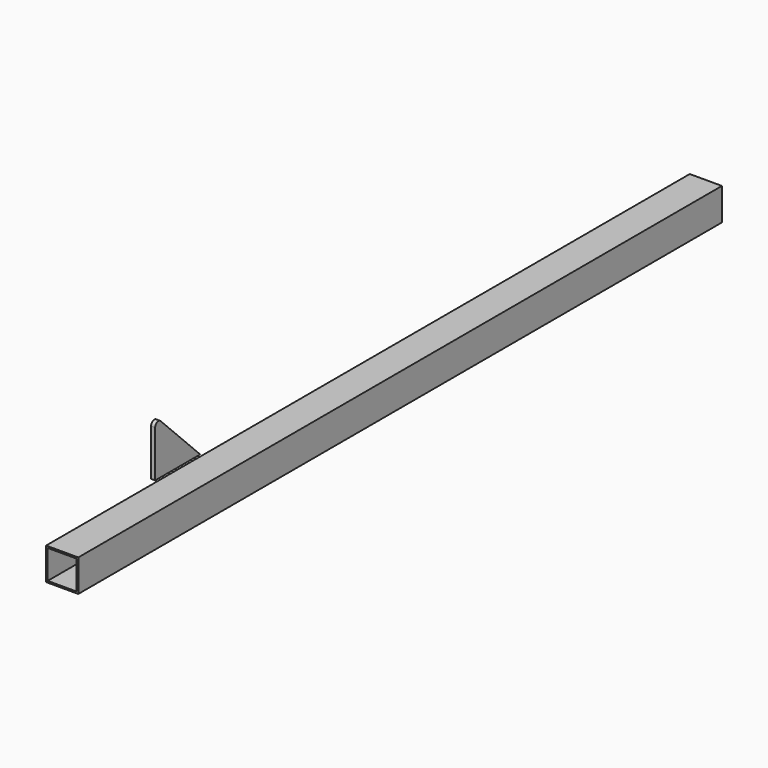
from build123d import *

# Parameters (mm, degrees)
F0_W     = 50.8
F0_H     = 50.8
F1_DEPTH = 635
F2_T     = -2.54
F4_DEPTH = 6.35


with BuildPart() as f1:
    # F0 (on Front) → F1 (new body, symmetric)
    with BuildSketch(Plane.XZ):
        Rectangle(F0_W, F0_H)
    extrude(amount=F1_DEPTH, both=True)

    # F2
    f2_openings = [f1.faces().sort_by_distance(p)[0] for p in [
        (0, -635, 0),
        (0, 635, 0),
    ]]
    offset(amount=F2_T, openings=f2_openings)


with BuildPart() as f4:
    # F3 (on Right) → F4 (new body)
    with BuildSketch(Plane.YZ):
        with BuildLine():
            ThreePointArc((-448.648115, 132.905924), (-455.568283, 134.282431), (-459.488243, 128.415796))
            Line((-459.488243, 128.415796), (-459.488243, 54.846052))
            Line((-459.488243, 54.846052), (-370.588243, 54.846052))
            Line((-370.588243, 54.846052), (-448.648115, 132.905924))
        make_face()
    extrude(amount=F4_DEPTH)


solid = Compound([f1.part, f4.part])
